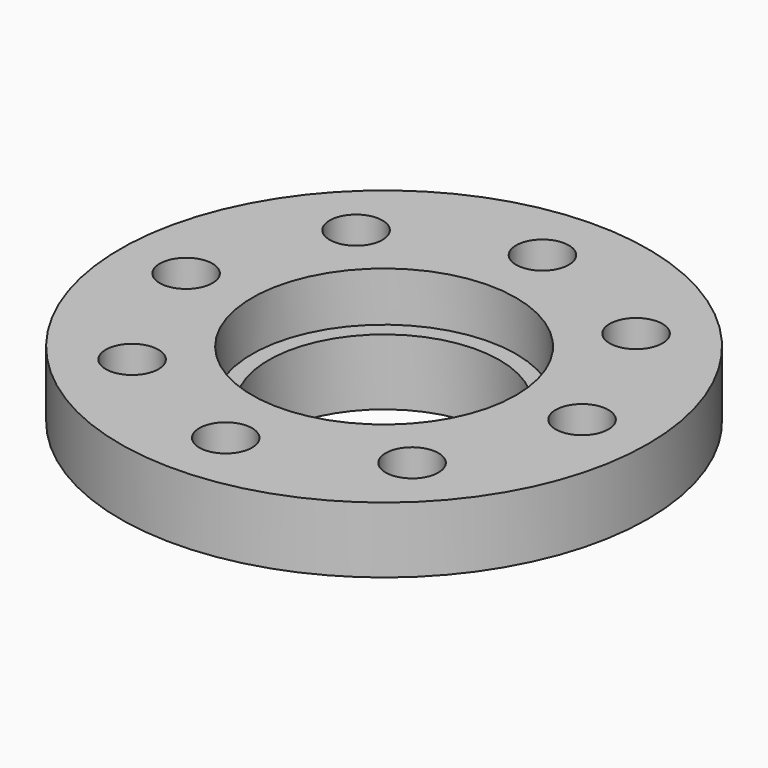
from build123d import *

# Parameters (mm, degrees)
F0_R     = 4.5
F0_R_2   = 3.5
F1_DEPTH = 1.5
F2_R     = 8
F2_R_2   = 0.8
F2_R_3   = 4.5
F2_R_4   = 3.5
F3_DEPTH = 2
F4_R     = 4
F5_DEPTH = 1.5


with BuildPart() as f1:
    # F0 (on Top) → F1 (new body)
    with BuildSketch(Plane.XY):
        Circle(F0_R)
        Circle(F0_R_2, mode=Mode.SUBTRACT)
    extrude(amount=F1_DEPTH)

    # F2 (on face) → F3 (join)
    with BuildSketch(Plane.XY.offset(1.5)):
        Circle(F2_R)
        with Locations((-4.2426406871, -4.2426406871)):
            Circle(F2_R_2, mode=Mode.SUBTRACT)
        with Locations((0, -6)):
            Circle(F2_R_2, mode=Mode.SUBTRACT)
        with Locations((4.2426406871, -4.2426406871)):
            Circle(F2_R_2, mode=Mode.SUBTRACT)
        with Locations((-6, 0)):
            Circle(F2_R_2, mode=Mode.SUBTRACT)
        with Locations((-4.2426406871, 4.2426406871)):
            Circle(F2_R_2, mode=Mode.SUBTRACT)
        Circle(F2_R_3, mode=Mode.SUBTRACT)
        with Locations((6, 0)):
            Circle(F2_R_2, mode=Mode.SUBTRACT)
        with Locations((0, 6)):
            Circle(F2_R_2, mode=Mode.SUBTRACT)
        with Locations((4.2426406871, 4.2426406871)):
            Circle(F2_R_2, mode=Mode.SUBTRACT)
        Circle(F2_R_3)
        Circle(F2_R_4, mode=Mode.SUBTRACT)
    extrude(amount=F3_DEPTH)

    # F4 (on face) → F5 (cut)
    with BuildSketch(Plane.XY.offset(3.5)):
        Circle(F4_R)
    extrude(amount=-F5_DEPTH, mode=Mode.SUBTRACT)


solid = f1.part
